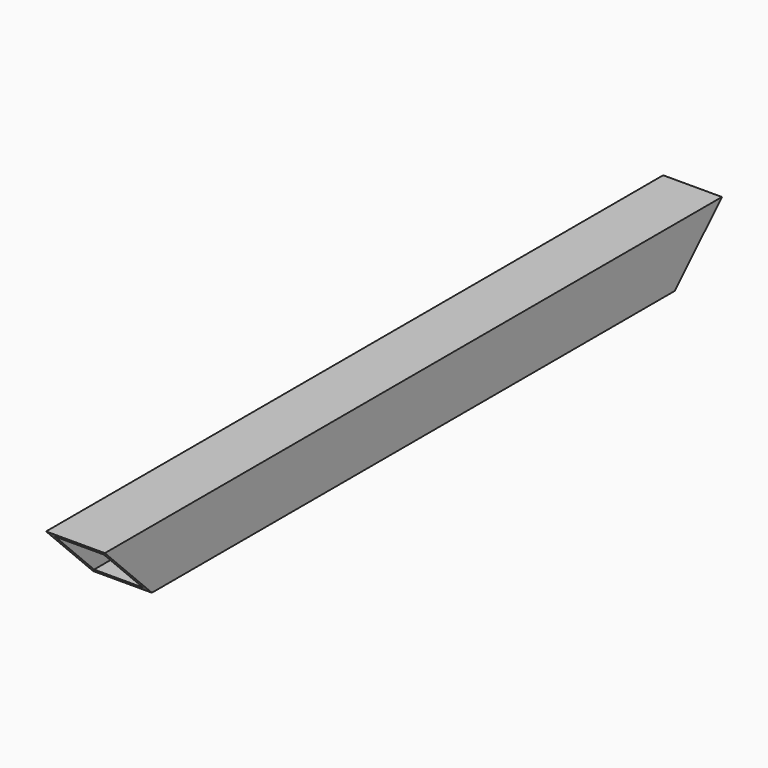
from build123d import *

# Parameters (mm, degrees)
F0_W     = 19.05
F0_H     = 19.05
F0_W_2   = 15.875
F0_H_2   = 15.875
F1_DEPTH = 250
F3_DEPTH = 9.526
F4_DEPTH = 9.526


with BuildPart() as f1:
    # F0 (on Front) → F1 (new body)
    with BuildSketch(Plane.XZ):
        Rectangle(F0_W, F0_H)
        Rectangle(F0_W_2, F0_H_2, mode=Mode.SUBTRACT)
    extrude(amount=F1_DEPTH)

    # F2 (on Right) → F3 (cut, through all)
    with BuildSketch(Plane.YZ):
        Polygon((0, -9.525), (0, 9.525), (-19.05, -9.525), align=None)
        Polygon((-250, 9.525), (-250, -9.525), (-230.95, -9.525), align=None)
    extrude(amount=-F3_DEPTH, mode=Mode.SUBTRACT)

    # F2 (on Right) → F4 (cut, through all)
    with BuildSketch(Plane.YZ):
        Polygon((0, -9.525), (0, 9.525), (-19.05, -9.525), align=None)
        Polygon((-250, 9.525), (-250, -9.525), (-230.95, -9.525), align=None)
    extrude(amount=F4_DEPTH, mode=Mode.SUBTRACT)


solid = f1.part
